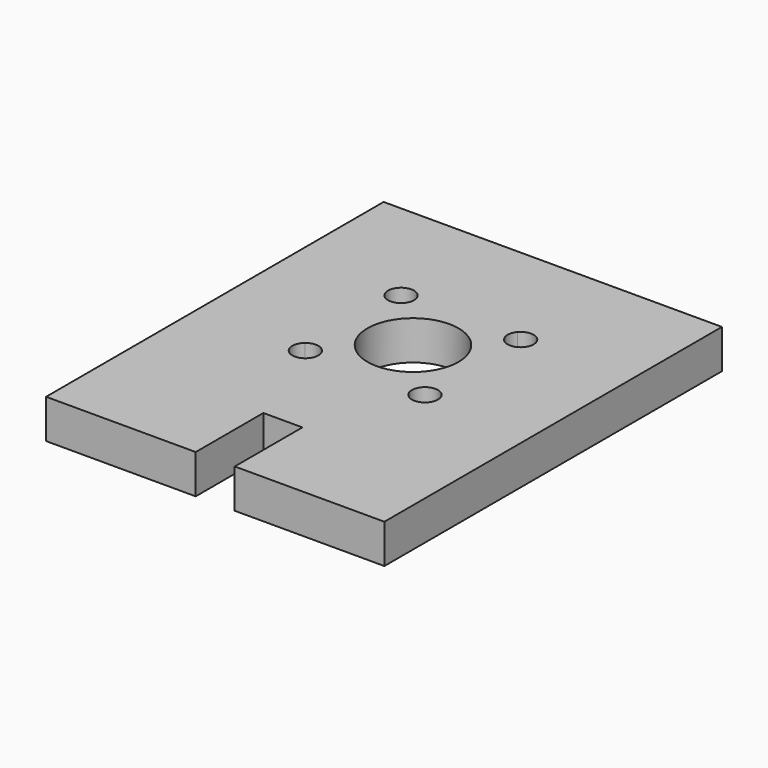
from build123d import *

# Parameters (mm, degrees)
F0_R     = 3.5
F1_DEPTH = 3


with BuildPart() as f1:
    # F0 (on Top) → F1 (new body)
    with BuildSketch(Plane.XY):
        Polygon((5.779619, -38.257712), (5.779619, -5.829007), (-20.220381, -5.829007), (-20.220381, -38.257712), (-8.720381, -38.257712), (-8.720381, -31.757712), (-5.720381, -31.757712), (-5.720381, -38.257712), align=None)
        with BuildLine():
            ThreePointArc((-1.973568, -15.420923), (-1.041615, -17.23958), (-0.720381, -19.257712))
            ThreePointArc((-0.720381, -19.257712), (-1.041615, -21.275845), (-1.973568, -23.094502))
            ThreePointArc((-1.973568, -23.094502), (-1.715721, -23.435946), (-1.624186, -23.853906))
            ThreePointArc((-1.624186, -23.853906), (-2.277347, -24.791831), (-3.383591, -24.504525))
            ThreePointArc((-3.383591, -24.504525), (-7.220381, -25.757712), (-11.05717, -24.504525))
            ThreePointArc((-11.05717, -24.504525), (-12.523681, -24.561013), (-12.467193, -23.094502))
            ThreePointArc((-12.467193, -23.094502), (-13.720381, -19.257712), (-12.467193, -15.420923))
            ThreePointArc((-12.467193, -15.420923), (-12.523681, -13.954411), (-11.05717, -14.010899))
            ThreePointArc((-11.05717, -14.010899), (-7.220381, -12.757712), (-3.383591, -14.010899))
            ThreePointArc((-3.383591, -14.010899), (-2.277347, -13.723594), (-1.624186, -14.661518))
            ThreePointArc((-1.624186, -14.661518), (-1.715721, -15.079478), (-1.973568, -15.420923))
        make_face(mode=Mode.SUBTRACT)
        with BuildLine():
            ThreePointArc((-1.973568, -23.094502), (-1.041615, -21.275845), (-0.720381, -19.257712))
            ThreePointArc((-0.720381, -19.257712), (-1.041615, -17.23958), (-1.973568, -15.420923))
            ThreePointArc((-1.973568, -15.420923), (-3.331293, -15.368625), (-3.383591, -14.010899))
            ThreePointArc((-3.383591, -14.010899), (-7.220381, -12.757712), (-11.05717, -14.010899))
            ThreePointArc((-11.05717, -14.010899), (-10.87865, -14.314678), (-10.816575, -14.661518))
            ThreePointArc((-10.816575, -14.661518), (-11.398615, -15.569984), (-12.467193, -15.420923))
            ThreePointArc((-12.467193, -15.420923), (-13.720381, -19.257712), (-12.467193, -23.094502))
            ThreePointArc((-12.467193, -23.094502), (-11.398615, -22.945441), (-10.816575, -23.853906))
            ThreePointArc((-10.816575, -23.853906), (-10.87865, -24.200746), (-11.05717, -24.504525))
            ThreePointArc((-11.05717, -24.504525), (-7.220381, -25.757712), (-3.383591, -24.504525))
            ThreePointArc((-3.383591, -24.504525), (-3.331293, -23.146799), (-1.973568, -23.094502))
        make_face()
        with Locations((-7.220381, -19.257712)):
            Circle(F0_R, mode=Mode.SUBTRACT)
    extrude(amount=F1_DEPTH)


solid = f1.part
